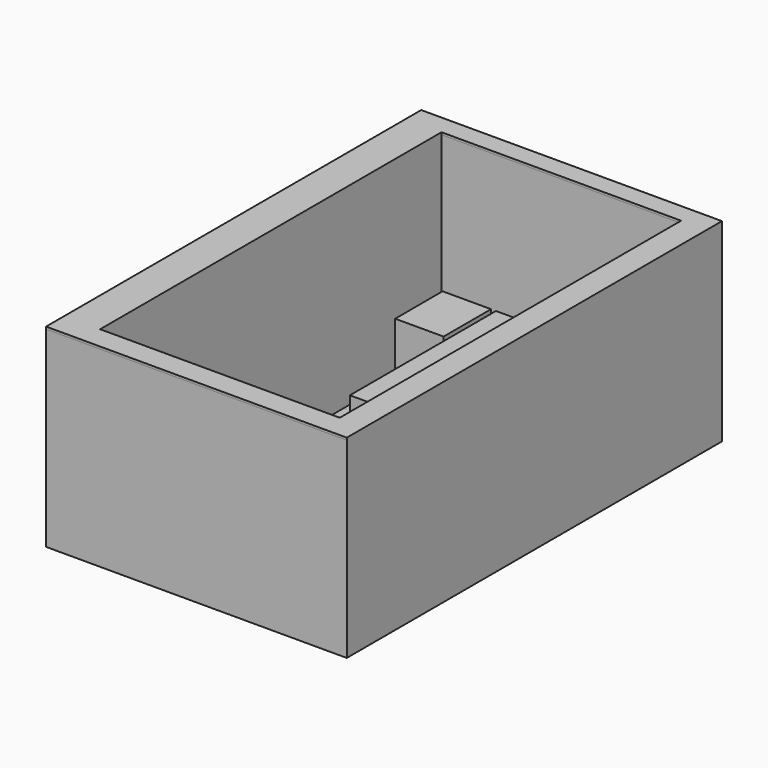
from build123d import *

# Parameters (mm, degrees)
F0_W        = 3347.071886
F0_H        = 5219.491959
F0_W_2      = 2667
F0_H_2      = 4749.8
F1_DEPTH    = 2133.6
F2_W        = 2645.458222
F2_H        = 4755.231976
F3_DEPTH    = 25.4
F1_FACE_W   = 3347.071886
F1_FACE_H   = 5219.491959
F1_FACE_W_2 = 2667
F1_FACE_H_2 = 4749.8
F4_DEPTH    = 25.4
F6_DEPTH    = 25.4
F7_W        = 1460.5
F7_H        = 2032
F8_DEPTH    = 584.2
F10_DEPTH   = 584.2
F11_W       = 1117.6
F11_H       = 406.4
F12_DEPTH   = 1473.2


with BuildPart() as f1:
    # F0 (on Top) → F1 (new body)
    with BuildSketch(Plane.XY):
        with Locations((170.29798, 1096.311569)):
            Rectangle(F0_W, F0_H)
        with Locations((228.606077, 1115.513818)):
            Rectangle(F0_W_2, F0_H_2, mode=Mode.SUBTRACT)
    extrude(amount=F1_DEPTH)

    # F2 (on Top) → F3 (cut)
    with BuildSketch(Plane.XY):
        with Locations((236.228347, 1112.794101)):
            Rectangle(F2_W, F2_H)
    extrude(amount=-F3_DEPTH, mode=Mode.SUBTRACT)

    # F1_face (on face) → F4 (join)
    with BuildSketch(Plane(origin=(16.490279, 1045.65902, 2133.6), x_dir=(1, 0, 0), z_dir=(0, 0, 1))):
        with Locations((153.807701, 50.65255)):
            Rectangle(F1_FACE_W, F1_FACE_H)
        with Locations((212.115798, 69.854799)):
            Rectangle(F1_FACE_W_2, F1_FACE_H_2, mode=Mode.SUBTRACT)
    extrude(amount=F4_DEPTH)

    # F5 (on Top) → F6 (join)
    with BuildSketch(Plane.XY):
        Polygon((1567.198873, 3482.168913), (-1086.500764, 3482.168913), (-1078.259468, -1264.821887), (1567.198873, -1264.821887), align=None)
    extrude(amount=F6_DEPTH)

    # F7 (on face) → F8 (join)
    with BuildSketch(Plane.XY.offset(25.4)):
        with Locations((237.802657, 2466.168913)):
            Rectangle(F7_W, F7_H)
    extrude(amount=F8_DEPTH)

    # F9 (on face) → F10 (join)
    with BuildSketch(Plane.XY.offset(25.4)):
        Polygon((-546.750764, 3482.168913), (-1086.500764, 3482.168913), (-1085.354237, 2821.768913), (-546.750764, 2821.768913), align=None)
    extrude(amount=F10_DEPTH)

    # F11 (on face) → F12 (join)
    with BuildSketch(Plane.XY.offset(25.4)):
        with Locations((-519.468905, -1056.186182)):
            Rectangle(F11_W, F11_H)
    extrude(amount=F12_DEPTH)


solid = f1.part
